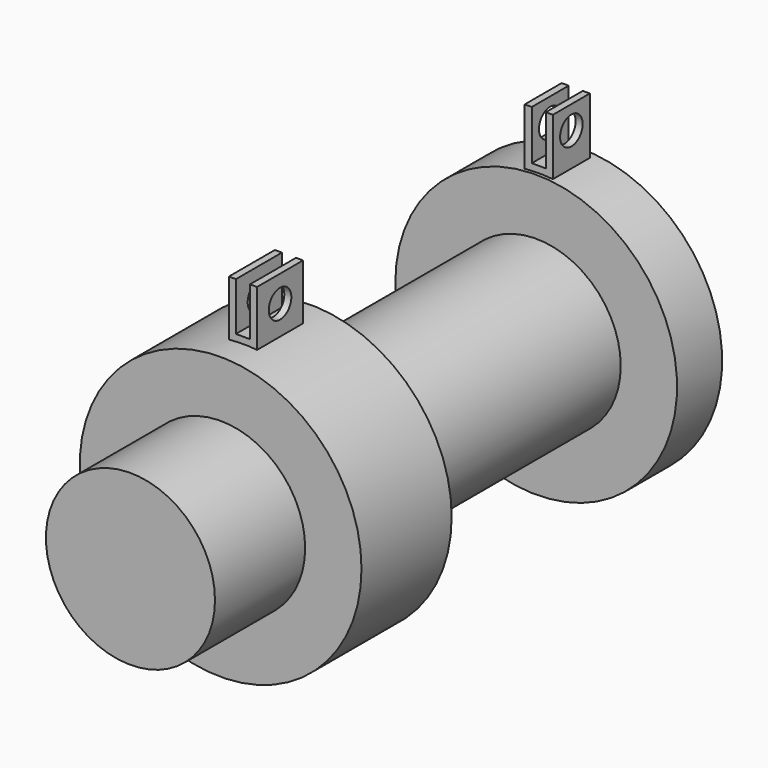
from build123d import *

# Parameters (mm, degrees)
F0_R      = 38.1
F1_DEPTH  = 254
F2_R      = 63.5
F3_DEPTH  = 25.4
F4_R      = 63.5
F4_R_2    = 38.1
F5_DEPTH  = 50.8
F7_W      = 25.925078
F7_H      = 38.211462
F7_R      = 6.35
F8_DEPTH  = 6.35
F9_W      = 20.821888
F9_H      = 35.750796
F9_R      = 6.35
F10_DEPTH = 6.35
F12_DEPTH = 254


with BuildPart() as f1:
    # F0 (on Front) → F1 (new body)
    with BuildSketch(Plane.XZ):
        Circle(F0_R)
    extrude(amount=F1_DEPTH)

    # F2 (on face) → F3 (join)
    with BuildSketch(Plane(origin=(0, 0, 0), x_dir=(-1, 0, 0), z_dir=(0, 1, 0))):
        Circle(F2_R)
    extrude(amount=-F3_DEPTH)

    # F9 (on Right) → F10 (join, symmetric)
    with BuildSketch(Plane.YZ):
        with Locations((-13.519792, 70.856152)):
            Rectangle(F9_W, F9_H)
        with Locations((-13.519792, 78.275084)):
            Circle(F9_R, mode=Mode.SUBTRACT)
    extrude(amount=F10_DEPTH, both=True)


with BuildPart() as f5:
    # F4 (on face) → F5 (new body)
    with BuildSketch(Plane.XZ.offset(254)):
        Circle(F4_R)
        Circle(F4_R_2, mode=Mode.SUBTRACT)
    extrude(amount=-F5_DEPTH)


with BuildPart() as f5_1:
    # F6: moved
    add(f5.part.moved(Location((0, 50.8, 0))))

    # F7 (on Right) → F8 (join, symmetric)
    with BuildSketch(Plane.YZ):
        with Locations((-177.647777, 69.075886)):
            Rectangle(F7_W, F7_H)
        with Locations((-177.647777, 76.282203)):
            Circle(F7_R, mode=Mode.SUBTRACT)
    extrude(amount=F8_DEPTH, both=True)


with BuildPart() as f12_tool:
    # F11 (on Front) → F12 (new body)
    with BuildSketch(Plane.XZ):
        Polygon((-3.175, 66.425036), (0, 66.425036), (3.175, 66.425036), (3.175, 90.221232), (0, 90.221232), (-3.175, 90.221232), align=None)
    extrude(amount=F12_DEPTH)


with BuildPart() as f1_1:
    add(f1.part)

    # F12: cut by f12_tool
    add(f12_tool.part, mode=Mode.SUBTRACT)


with BuildPart() as f5_2:
    add(f5_1.part)

    # F12: cut by f12_tool
    add(f12_tool.part, mode=Mode.SUBTRACT)


solid = Compound([f1_1.part, f5_2.part])
